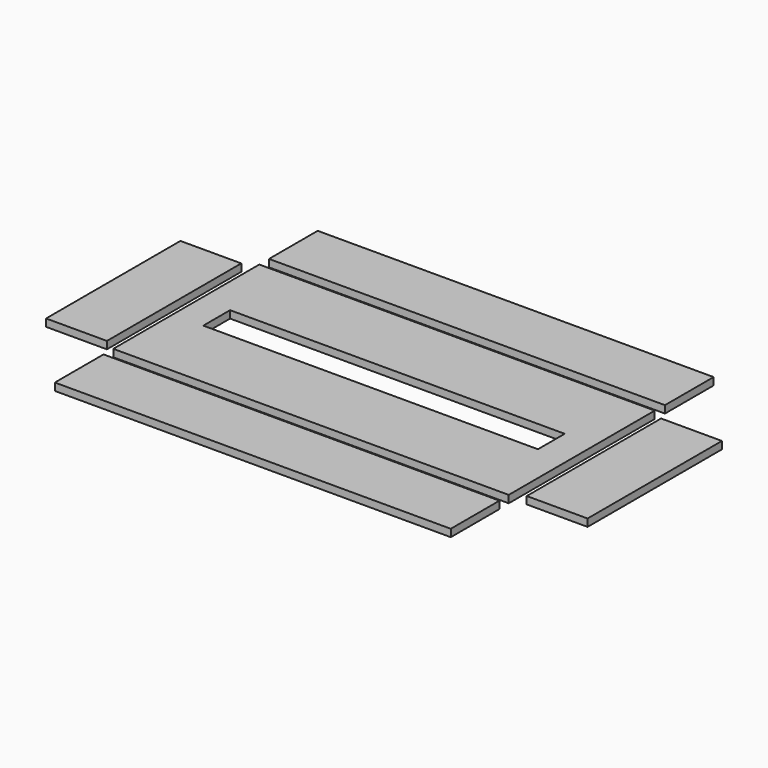
from build123d import *

# Parameters (mm, degrees)
F0_W     = 165.1
F0_H     = 76.2
F0_W_2   = 139.7
F0_H_2   = 13.97
F1_DEPTH = 3.0988
F2_W     = 165.292114
F2_H     = 25.4
F2_W_2   = 25.4
F2_H_2   = 70.104
F3_DEPTH = 3.0988


with BuildPart() as f1:
    # F0 (on Top) → F1 (new body)
    with BuildSketch(Plane.XY):
        with Locations((82.55, 38.1)):
            Rectangle(F0_W, F0_H)
        with Locations((82.55, 38.1)):
            Rectangle(F0_W_2, F0_H_2, mode=Mode.SUBTRACT)
    extrude(amount=F1_DEPTH)


with BuildPart() as f3:
    # F2 (on face) → F3 (new body)
    with BuildSketch(Plane.XY.offset(3.0988)):
        with Locations((82.646057, 93.98)):
            Rectangle(F2_W, F2_H)
        with Locations((82.646057, -17.78)):
            Rectangle(F2_W, F2_H)
        with Locations((-17.78, 38.1)):
            Rectangle(F2_W_2, F2_H_2)
        with Locations((182.88, 38.1)):
            Rectangle(F2_W_2, F2_H_2)
    extrude(amount=-F3_DEPTH)


with BuildPart() as f3_1:
    # F4: moved
    add(f3.part.moved(Location((31.75, 31.75, 0))))


with BuildPart() as f1_1:
    # F4: moved
    add(f1.part.moved(Location((31.75, 31.75, 0))))


solid = Compound([f3_1.part, f1_1.part])
